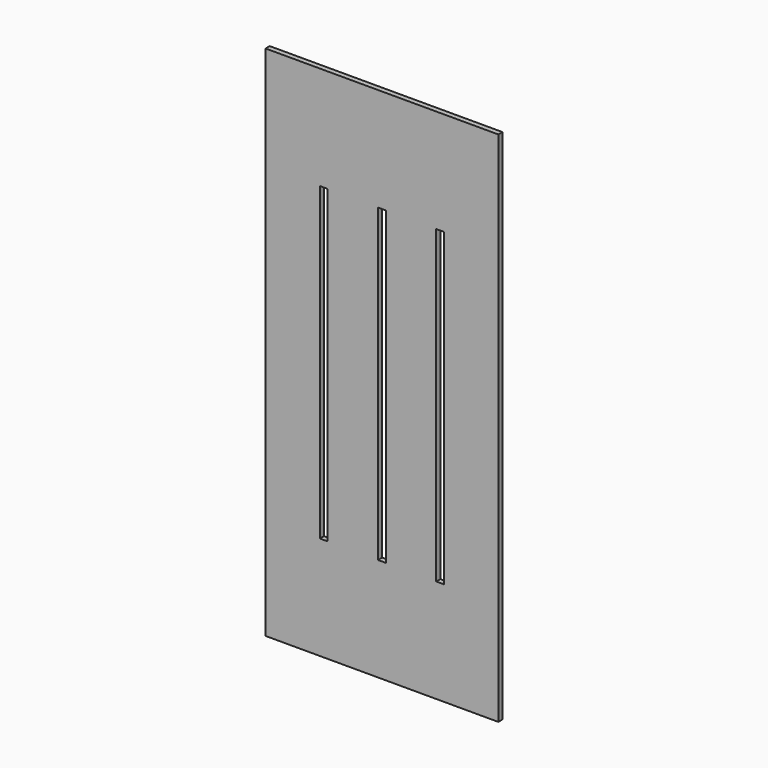
from build123d import *

# Parameters (mm, degrees)
F0_W     = 900
F0_H     = 2000
F1_DEPTH = 20


with BuildPart() as f1:
    # F0 (on Front) → F1 (new body)
    with BuildSketch(Plane.XZ):
        with Locations((379.336354, 1541.994798)):
            Rectangle(F0_W, F0_H)
        Polygon((139.336354, 2141.994798), (154.336354, 2141.994798), (169.336354, 2141.994798), (169.336354, 941.994798), (139.336354, 941.994798), align=None, mode=Mode.SUBTRACT)
        Polygon((364.336354, 1841.994798), (364.336354, 2141.994798), (379.336354, 2141.994798), (394.336354, 2141.994798), (394.336354, 1341.994798), (394.336354, 941.994798), (364.336354, 941.994798), align=None, mode=Mode.SUBTRACT)
        Polygon((619.336354, 2141.994798), (619.336354, 1341.994798), (619.336354, 1041.994798), (619.336354, 941.994798), (589.336354, 941.994798), (589.336354, 1341.994798), (589.336354, 2141.994798), align=None, mode=Mode.SUBTRACT)
    extrude(amount=F1_DEPTH)


solid = f1.part
